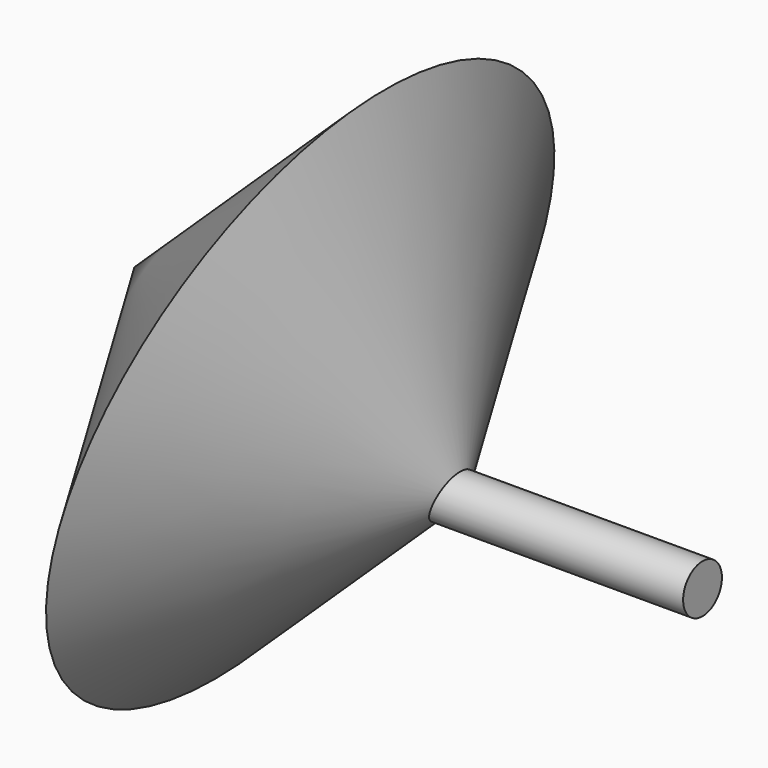
from build123d import *

# Parameters (mm, degrees)
F2_R     = 2.7385207235
F3_DEPTH = 33.9852


with BuildPart() as f1:
    # F0 (on Front) → F1 (revolve)
    with BuildSketch(Plane.XZ):
        Polygon((-55.0290107616, -13.4381904874), (-26.7128139846, 13.4381904874), (-64.146541059, 24.5225457475), align=None)
    revolve(axis=Axis((-45.4296775218, 0, 18.9803681174), (0.9588477701, 0, -0.2839206821)))

    # F2 (on Right) → F3 (join)
    with BuildSketch(Plane.YZ):
        with Locations((0, 13.421850279)):
            Circle(F2_R)
    extrude(amount=-F3_DEPTH)


solid = f1.part
